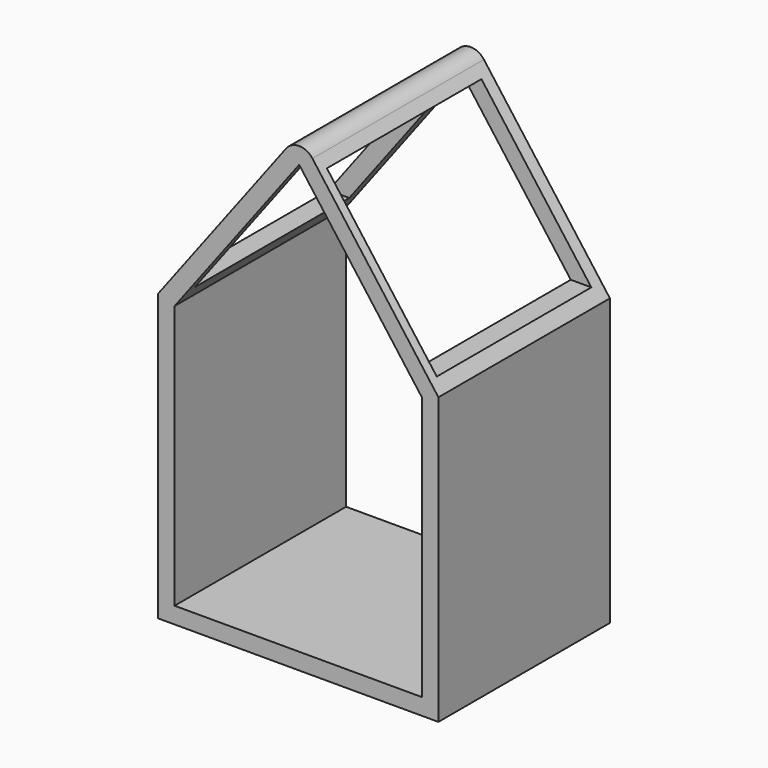
from build123d import *

# Parameters (mm, degrees)
F1_DEPTH      = 165.1
F2_R          = 12.7
F3_W          = 148.7911092117
F3_H          = 113.6830970645
F4_DEPTH      = 168.43995
F4_DEPTH_BACK = 150.70774


with BuildPart() as f1:
    # F0 (on Front) → F1 (new body)
    with BuildSketch(Plane.XZ):
        Polygon((107.244443667, 67.909792846), (0.0752603531, 211.8683984813), (-108.655556333, 67.959965798), (-108.655556333, -152.1984019804), (107.244443667, -152.1984019804), align=None)
        Polygon((94.544443667, -139.4984019804), (-95.955556333, -139.4984019804), (-95.955556333, 63.7015980196), (0, 190.7015980196), (94.544443667, 63.7015980196), align=None, mode=Mode.SUBTRACT)
    extrude(amount=F1_DEPTH)

    # F2
    f2_edges = [f1.edges().sort_by_distance(p)[0] for p in [
        (0.07526, -82.55, 211.868398),
    ]]
    fillet(f2_edges, radius=F2_R)

    # F3 (on Right) → F4 (cut, two sides)
    with BuildSketch(Plane.YZ) as f4_sk:
        with Locations((-83.8478184305, 133.8204629719)):
            Rectangle(F3_W, F3_H)
    extrude(amount=-F4_DEPTH, mode=Mode.SUBTRACT)
    extrude(f4_sk.sketch, amount=F4_DEPTH_BACK, mode=Mode.SUBTRACT)


solid = f1.part
